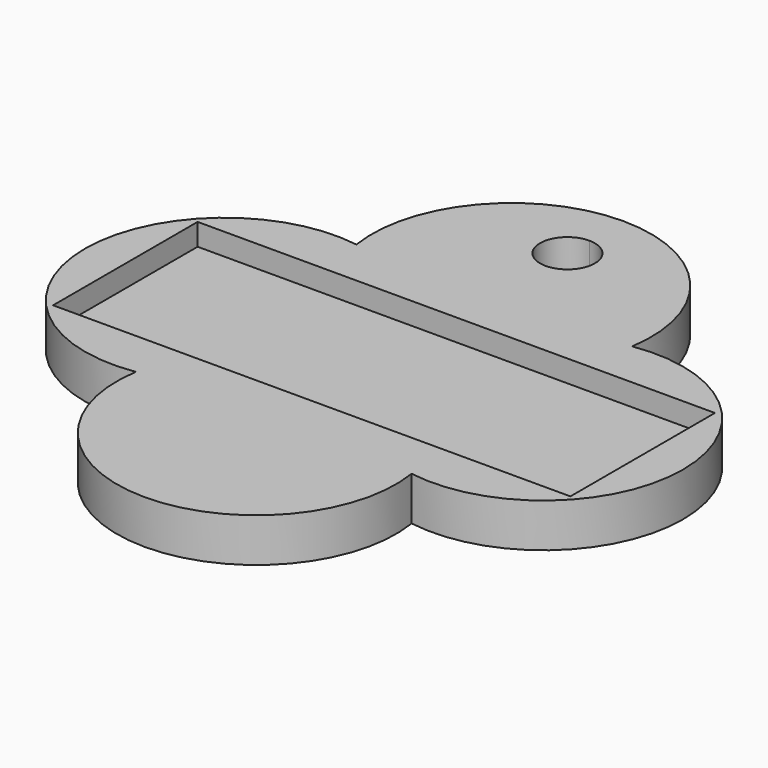
from build123d import *

# Parameters (mm, degrees)
F1_DEPTH = 4
F2_W     = 47.247536
F2_H     = 16.5
F3_DEPTH = 2


with BuildPart() as f1:
    # F0 (on Top) → F1 (new body)
    with BuildSketch(Plane.XY):
        with BuildLine():
            ThreePointArc((0, 27.313505), (-9.686066, 22.852633), (-12.592393, 12.592393))
            ThreePointArc((-12.592393, 12.592393), (-27.313505, 0), (-12.592393, -12.592393))
            ThreePointArc((-12.592393, -12.592393), (0, -27.313505), (12.592393, -12.592393))
            ThreePointArc((12.592393, -12.592393), (27.313505, 0), (12.592393, 12.592393))
            ThreePointArc((12.592393, 12.592393), (9.686066, 22.852633), (0, 27.313505))
        make_face()
        with BuildLine():
            ThreePointArc((0, 18.440354), (-2.5, 20.940354), (0, 23.440354))
            ThreePointArc((0, 23.440354), (1.767767, 22.708121), (2.5, 20.940354))
            ThreePointArc((2.5, 20.940354), (1.767767, 19.172587), (0, 18.440354))
        make_face(mode=Mode.SUBTRACT)
    extrude(amount=F1_DEPTH)

    # F2 (on face) → F3 (cut)
    with BuildSketch(Plane.XY.offset(4)):
        Rectangle(F2_W, F2_H)
    extrude(amount=-F3_DEPTH, mode=Mode.SUBTRACT)


solid = f1.part
